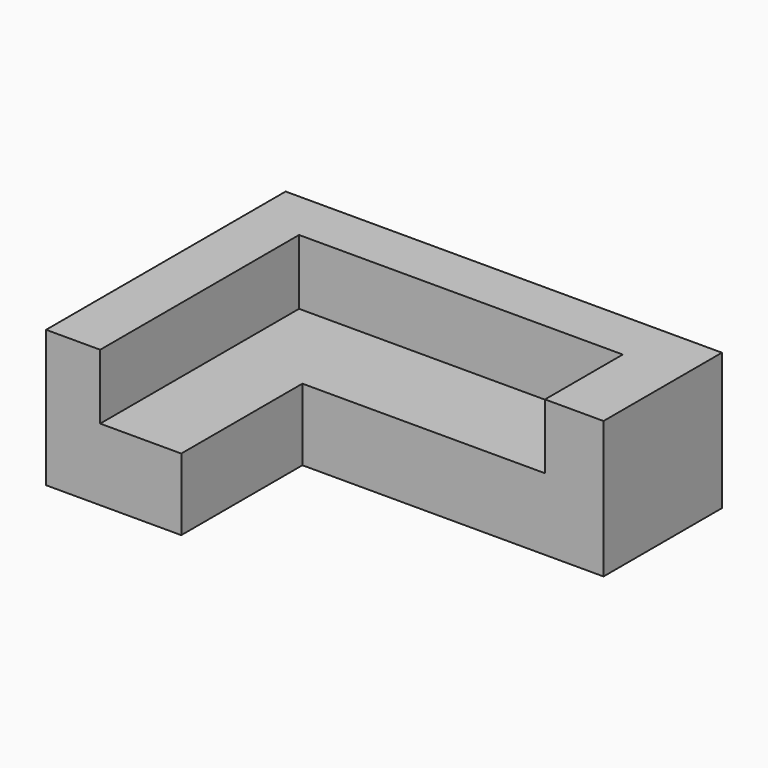
from build123d import *

# Parameters (mm, degrees)
F0_W     = 1750
F0_H     = 800
F1_DEPTH = 2550
F2_W     = 1759.9512815475
F2_H     = 885.021125094
F3_DEPTH = 940
F5_DEPTH = 380


with BuildPart() as f1:
    # F0 (on Right) → F1 (new body)
    with BuildSketch(Plane.YZ):
        with Locations((-78.0253756204, 400)):
            Rectangle(F0_W, F0_H)
    extrude(amount=F1_DEPTH)

    # F2 (on face) → F3 (cut)
    with BuildSketch(Plane.XY.offset(800)):
        with Locations((1670.0243592262, -510.5148130734)):
            Rectangle(F2_W, F2_H)
    extrude(amount=-F3_DEPTH, mode=Mode.SUBTRACT)

    # F4 (on face) → F5 (cut)
    with BuildSketch(Plane.XY.offset(800)):
        Polygon((2208.0314159393, -68.0042505264), (2208.0314159393, 499.9359548092), (790.0487184525, 499.9359548092), (316.1346912384, 499.9359548092), (316.1346912384, -953.0253756204), (790.0487184525, -953.0253756204), (790.0487184525, -68.0042505264), align=None)
    extrude(amount=-F5_DEPTH, mode=Mode.SUBTRACT)


solid = f1.part
